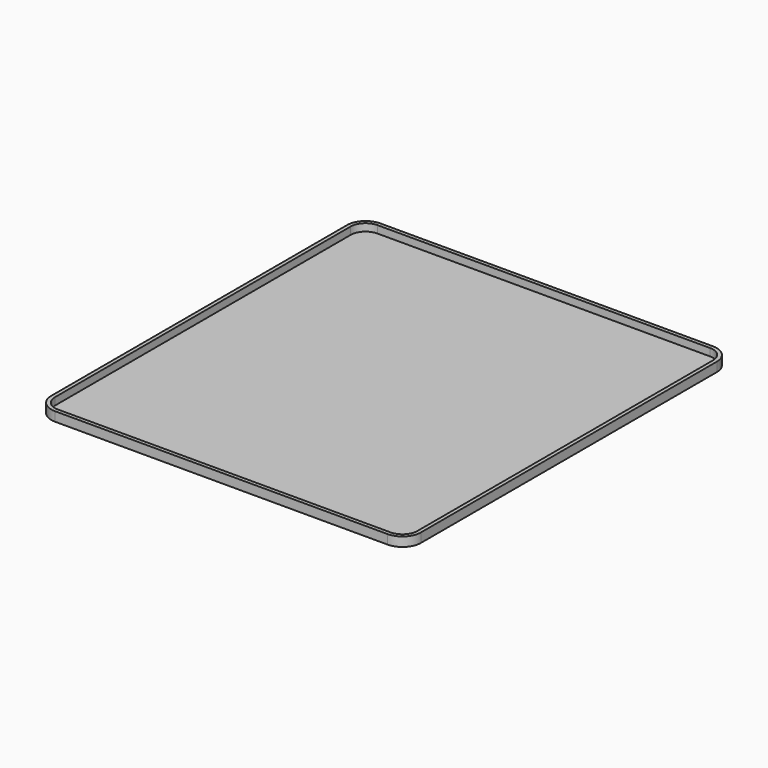
from build123d import *

# Parameters (mm, degrees)
F1_DEPTH = 0.5
F3_DEPTH = 2


with BuildPart() as f1:
    # F0 (on Top) → F1 (new body)
    with BuildSketch(Plane.XY):
        with BuildLine():
            Line((-45, -53.918237), (45, -53.918237))
            ThreePointArc((45, -53.918237), (48.535534, -52.453771), (50, -48.918237))
            Line((50, -48.918237), (50, 51.081763))
            ThreePointArc((50, 51.081763), (48.535534, 54.617297), (45, 56.081763))
            Line((45, 56.081763), (-45, 56.081763))
            ThreePointArc((-45, 56.081763), (-48.535534, 54.617297), (-50, 51.081763))
            Line((-50, 51.081763), (-50, -48.918237))
            ThreePointArc((-50, -48.918237), (-48.535534, -52.453771), (-45, -53.918237))
        make_face()
    extrude(amount=F1_DEPTH)

    # F2 (on face) → F3 (join)
    with BuildSketch(Plane.XY.offset(0.5)):
        with BuildLine():
            ThreePointArc((45, -53.918237), (48.535534, -52.453771), (50, -48.918237))
            Line((50, -48.918237), (50, 51.081763))
            ThreePointArc((50, 51.081763), (48.535534, 54.617297), (45, 56.081763))
            Line((45, 56.081763), (-45, 56.081763))
            ThreePointArc((-45, 56.081763), (-48.535534, 54.617297), (-50, 51.081763))
            Line((-50, 51.081763), (-50, -48.918237))
            ThreePointArc((-50, -48.918237), (-48.535534, -52.453771), (-45, -53.918237))
            Line((-45, -53.918237), (45, -53.918237))
        make_face()
        with BuildLine():
            Line((49, 51.081763), (49, -48.918237))
            ThreePointArc((49, -48.918237), (47.828427, -51.746664), (45, -52.918237))
            Line((45, -52.918237), (-45, -52.918237))
            ThreePointArc((-45, -52.918237), (-47.828427, -51.746664), (-49, -48.918237))
            Line((-49, -48.918237), (-49, 51.081763))
            ThreePointArc((-49, 51.081763), (-47.828427, 53.91019), (-45, 55.081763))
            Line((-45, 55.081763), (45, 55.081763))
            ThreePointArc((45, 55.081763), (47.828427, 53.91019), (49, 51.081763))
        make_face(mode=Mode.SUBTRACT)
    extrude(amount=F3_DEPTH)


solid = f1.part
